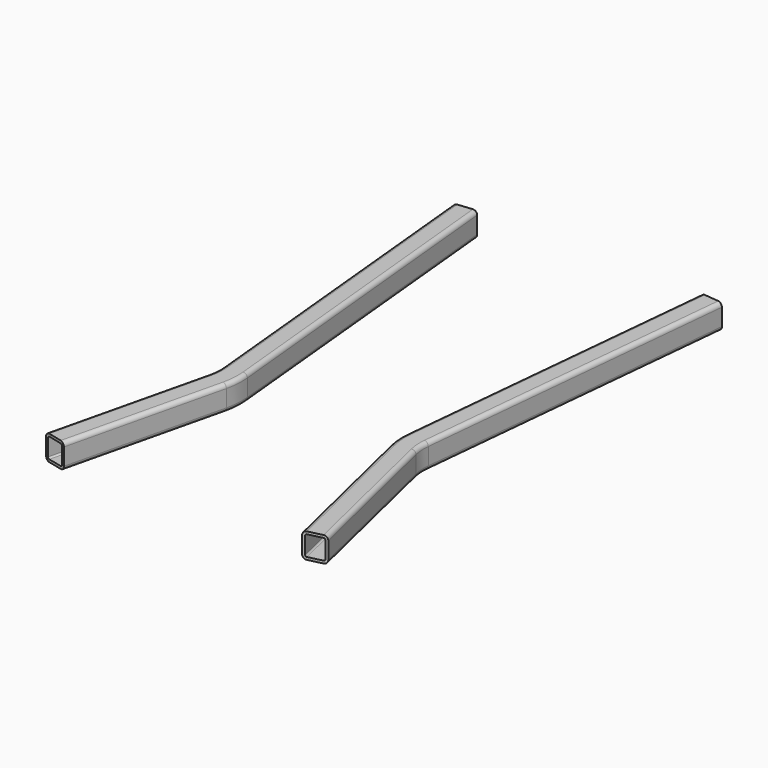
from build123d import *

# Parameters (mm, degrees)
F4_T = -2.5


with BuildPart() as f3:
    # F3: sweep along a path in F0
    with BuildLine(Plane.XY) as f3_path:
        Line((117, -165.347361636), (80.2999848354, -11.7207621559))
        ThreePointArc((80.2999848354, -11.7207621559), (78.4991207254, 0.0687118362), (78.6690849209, 11.9937242357))
        Line((78.6690849209, 11.9937242357), (110, 333.419780457))
    # F2 (on line) → F3 (sweep)
    with BuildSketch(Plane(origin=(43.6840614187, -182.8618810412, 0), x_dir=(0.972631539, 0.2323529412, 0), z_dir=(0.2323529412, -0.972631539, 0))):
        with BuildLine():
            Line((93.6139442753, 0), (79.3789442753, 0))
            ThreePointArc((79.3789442753, 0), (76.5505171505, -1.1715728753), (75.3789442753, -4))
            Line((75.3789442753, -4), (75.3789442753, -20.65))
            ThreePointArc((75.3789442753, -20.65), (76.5505171505, -23.4784271247), (79.3789442753, -24.65))
            Line((79.3789442753, -24.65), (93.6139442753, -24.65))
            ThreePointArc((93.6139442753, -24.65), (96.4423714, -23.4784271247), (97.6139442753, -20.65))
            Line((97.6139442753, -20.65), (97.6139442753, -4))
            ThreePointArc((97.6139442753, -4), (96.4423714, -1.1715728753), (93.6139442753, 0))
        make_face()
    sweep(path=f3_path.line)

    # F4
    f4_openings = [f3.faces().sort_by_distance(p)[0] for p in [
        (127.813231, -162.764178, -12.325),
        (121.065058, 332.341217, -12.325),
    ]]
    offset(amount=F4_T, openings=f4_openings)


with BuildPart() as f8_1:
    # F8: instance of F3
    add(f3.part.mirror(Plane.YZ))


solid = Compound([f3.part, f8_1.part])
